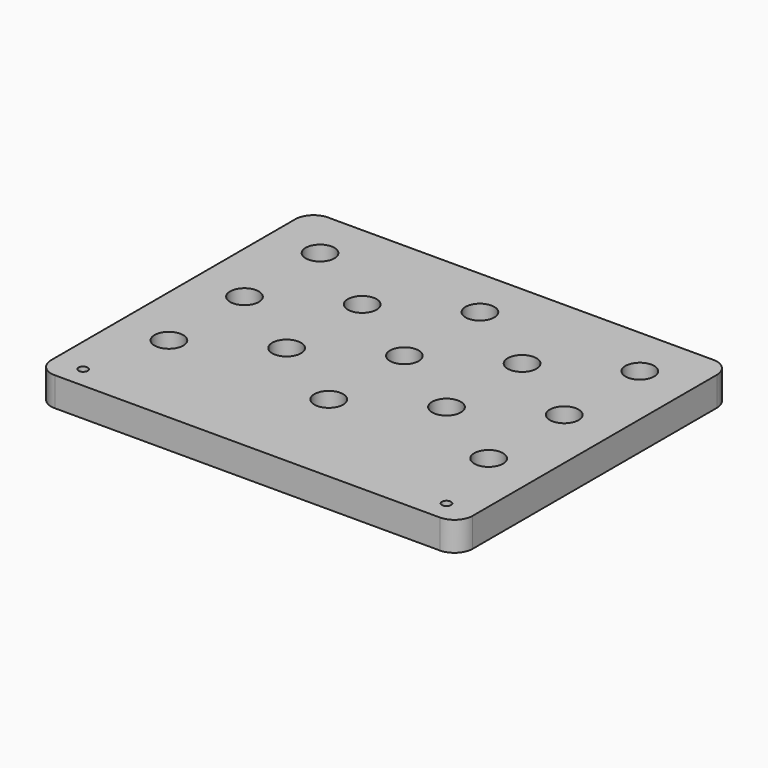
from build123d import *

# Parameters (mm, degrees)
F0_W     = 116
F0_H     = 94
F1_DEPTH = 8
F3_D     = 7.9
F3_DEPTH = 5
F3_TIP   = 2.3733994452
F5_D     = 2.5
F6_R     = 5


with BuildPart() as f1:
    # F0 (on Top) → F1 (new body)
    with BuildSketch(Plane.XY):
        Rectangle(F0_W, F0_H)
    extrude(amount=F1_DEPTH)

    # F3
    with Locations(Plane.XY.offset(8)):
        with Locations((-44, 33), (-22, 20), (-44, 7), (-44, -19), (-22, -6), (0, -19), (0, 7), (0, 33), (22, 20), (22, -6), (44, 7), (44, 33), (44, -19)):
            Hole(F3_D / 2, depth=F3_DEPTH)
            with Locations((0, 0, -(F3_DEPTH + F3_TIP / 2))):  # 118° drill point
                Cone(0, F3_D / 2, F3_TIP, mode=Mode.SUBTRACT)

    # F5 (through all)
    with Locations(Plane.XY.offset(8)):
        with Locations((-50, -41), (50, -41)):
            Hole(F5_D / 2)

    # F6
    f6_edges = [f1.edges().sort_by_distance(p)[0] for p in [
        (-58, -47, 4),
        (58, -47, 4),
        (-58, 47, 4),
        (58, 47, 4),
    ]]
    fillet(f6_edges, radius=F6_R)


solid = f1.part
